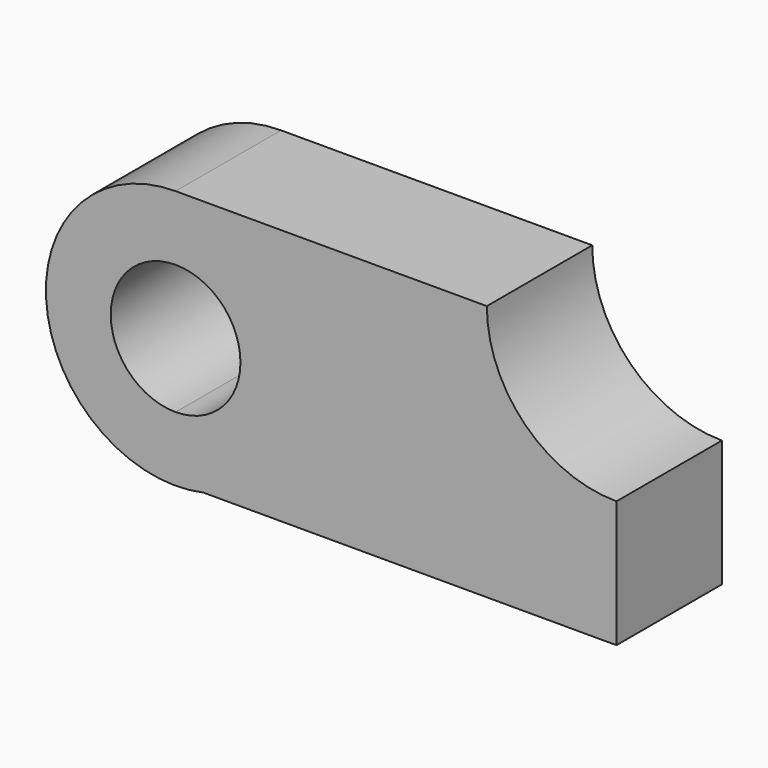
from build123d import *

# Parameters (mm, degrees)
F1_DEPTH = 32.258


with BuildPart() as f1:
    # F0 (on Front) → F1 (new body)
    with BuildSketch(Plane.XZ):
        with BuildLine():
            ThreePointArc((0, 46.888448), (11.22532, 42.238768), (15.875, 31.013448))
            ThreePointArc((15.875, 31.013448), (11.22532, 19.788128), (0, 15.138448))
            Line((0, 15.138448), (0, 0))
            Line((0, 0), (6.799159, 0))
            ThreePointArc((6.799159, 0), (24.737985, 11.111322), (31.75, 31.013448))
            ThreePointArc((31.75, 31.013448), (22.45064, 53.464088), (0, 62.763448))
            Line((0, 62.763448), (0, 46.888448))
        make_face()
        with BuildLine():
            ThreePointArc((0, 15.138448), (-15.875, 31.013448), (0, 46.888448))
            Line((0, 46.888448), (0, 62.763448))
            ThreePointArc((0, 62.763448), (-31.565325, 27.593979), (6.799159, 0))
            Line((6.799159, 0), (0, 0))
            Line((0, 0), (0, 15.138448))
        make_face()
        with BuildLine():
            Line((76.2, 62.763448), (0, 62.763448))
            ThreePointArc((0, 62.763448), (22.45064, 53.464088), (31.75, 31.013448))
            ThreePointArc((31.75, 31.013448), (24.737985, 11.111322), (6.799159, 0))
            Line((6.799159, 0), (107.95, 0))
            Line((107.95, 0), (107.95, 31.013448))
            ThreePointArc((107.95, 31.013448), (85.49936, 40.312807), (76.2, 62.763448))
        make_face()
    extrude(amount=F1_DEPTH)


solid = f1.part
